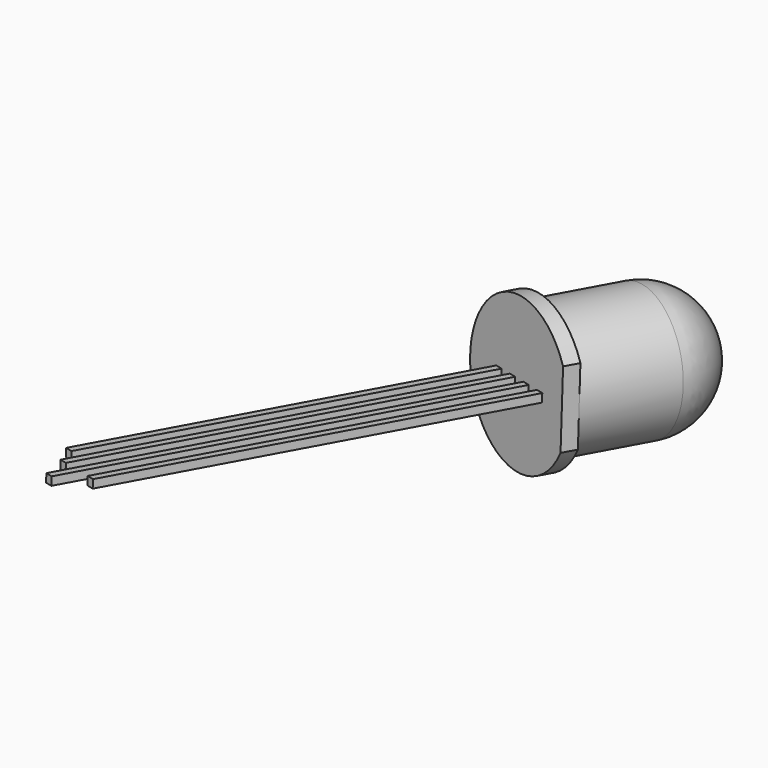
from build123d import *

# Parameters (mm, degrees)
SKETCH008_W             = 0.5
SKETCH008_H             = 0.5
PAD001_DEPTH            = 27.5
SKETCH010_W             = 1
SKETCH010_H             = 6.098212
POCKET004_DEPTH         = 5
SKETCH011_W             = 0.5
SKETCH011_H             = 0.5
POCKET005_DEPTH         = 2.7
SKETCH007_W             = 0.5
SKETCH007_H             = 0.5
POCKET003_DEPTH         = 1.6
BODY001_ROLL_ANGLE      = -4.906097
BODY001_PITCH_ANGLE     = -4.958357
BODY001_PLACEMENT_ANGLE = -19.649879


with BuildPart() as part:
    # Sketch009 → Revolution001 (revolve)
    with BuildSketch(Plane.XY):
        with BuildLine():
            ThreePointArc((4, 7), (2.828427, 9.828427), (0, 11))
            Line((0, 0), (0, 11))
            Line((4.6, 0), (0, 0))
            Line((4.6, 1), (4.6, 0))
            Line((4, 1), (4.6, 1))
            Line((4, 7), (4, 1))
        make_face()
    revolve(axis=Axis((0, 0, 0), (0, 1, 0)))

    # Sketch008 (on Face2 of Revolution001) → Pad001 (new body)
    with BuildSketch(Plane.XZ):
        with Locations((0.635, 0)):
            Rectangle(SKETCH008_W, SKETCH008_H)
        with Locations((1.905, 0)):
            Rectangle(SKETCH008_W, SKETCH008_H)
        with Locations((-0.635, 0)):
            Rectangle(SKETCH008_W, SKETCH008_H)
        with Locations((-1.905, 0)):
            Rectangle(SKETCH008_W, SKETCH008_H)
    extrude(amount=PAD001_DEPTH)

    # Sketch010 (on Face5 of Pad001) → Pocket004 (cut)
    with BuildSketch(Plane.XZ):
        with Locations((4.5, 0)):
            Rectangle(SKETCH010_W, SKETCH010_H)
    extrude(amount=-POCKET004_DEPTH, mode=Mode.SUBTRACT)

    # Sketch011 (on Face23 of Pocket004) → Pocket005 (cut)
    with BuildSketch(Plane.XZ.offset(27.5)):
        with Locations((-1.905, 0)):
            Rectangle(SKETCH011_W, SKETCH011_H)
    extrude(amount=-POCKET005_DEPTH, mode=Mode.SUBTRACT)

    # Sketch007 (on Face24 of Pocket005) → Pocket003 (cut)
    with BuildSketch(Plane.XZ.offset(27.5)):
        with Locations((-0.635, 0)):
            Rectangle(SKETCH007_W, SKETCH007_H)
        with Locations((1.905, 0)):
            Rectangle(SKETCH007_W, SKETCH007_H)
    extrude(amount=-POCKET003_DEPTH, mode=Mode.SUBTRACT)


with BuildPart() as part_1:
    # Body001 roll: moved
    add(part.part.rotate(Axis((0, 0, 0), (1, 0, 0)), BODY001_ROLL_ANGLE))


with BuildPart() as part_2:
    # Body001 pitch: moved
    add(part_1.part.rotate(Axis((0, 0, 0), (0, 1, 0)), BODY001_PITCH_ANGLE))


with BuildPart() as part_3:
    # Body001 placement: moved
    add(part_2.part.moved(Location((-5.347911, -6.437708, 2.632349))).rotate(Axis((-5.347911, -6.437708, 2.632349), (0, 0, 1)), BODY001_PLACEMENT_ANGLE))


solid = part_3.part
